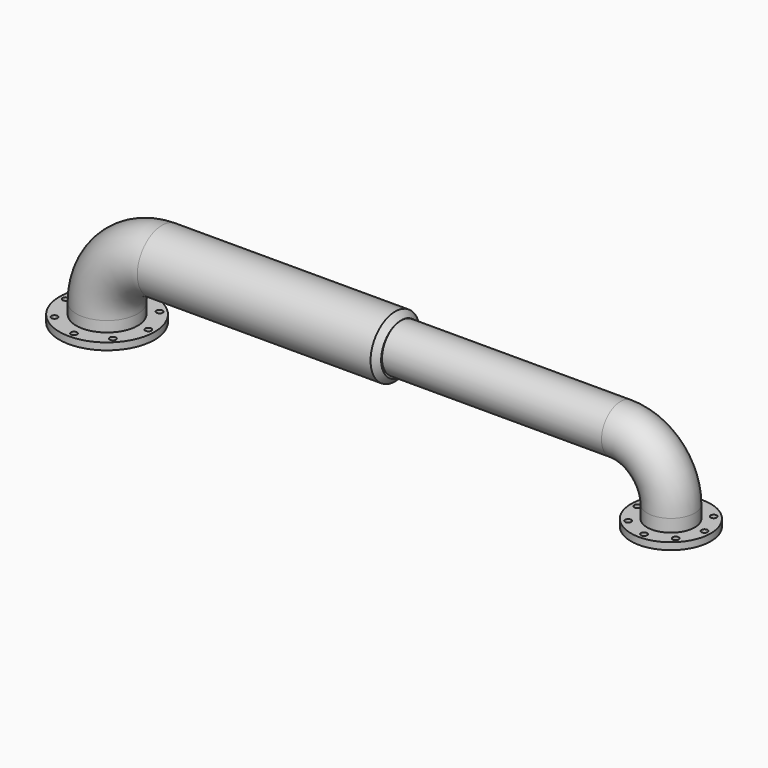
from build123d import *

# Parameters (mm, degrees)
F0_R      = 85
F3_R      = 142.5
F3_R_2    = 11
F3_R_3    = 85
F4_DEPTH  = 25
F5_R      = 110
F8_SIZE   = 21
F9_R      = 170
F9_R_2    = 11
F9_R_3    = 110
F10_DEPTH = 12.5


with BuildPart() as f2:
    # F2: sweep along a path in F1
    with BuildLine(Plane.XZ) as f2_path:
        Line((0, 0), (0, 70))
        ThreePointArc((0, 70), (-52.7207793864, 197.2792206136), (-180, 250))
        Line((-180, 250), (-1000, 250))
    # F0 (on Top) → F2 (sweep)
    with BuildSketch(Plane.XY):
        Circle(F0_R)
    sweep(path=f2_path.line)

    # F3 (on face) → F4 (join)
    with BuildSketch(Plane(origin=(0, 0, 0), x_dir=(1, 0, 0), z_dir=(0, 0, -1))):
        Circle(F3_R)
        with Locations((-84.8528137424, -84.8528137424)):
            Circle(F3_R_2, mode=Mode.SUBTRACT)
        with Locations((0, -120)):
            Circle(F3_R_2, mode=Mode.SUBTRACT)
        with Locations((84.8528137424, -84.8528137424)):
            Circle(F3_R_2, mode=Mode.SUBTRACT)
        with Locations((-120, 0)):
            Circle(F3_R_2, mode=Mode.SUBTRACT)
        with Locations((-84.8528137424, 84.8528137424)):
            Circle(F3_R_2, mode=Mode.SUBTRACT)
        Circle(F3_R_3, mode=Mode.SUBTRACT)
        with Locations((120, 0)):
            Circle(F3_R_2, mode=Mode.SUBTRACT)
        with Locations((0, 120)):
            Circle(F3_R_2, mode=Mode.SUBTRACT)
        with Locations((84.8528137424, 84.8528137424)):
            Circle(F3_R_2, mode=Mode.SUBTRACT)
    extrude(amount=-F4_DEPTH)

    # F7: sweep along a path in F6
    with BuildLine(Plane.XZ) as f7_path:
        Line((-2018.191576004, 0), (-2018.191576004, 50))
        ThreePointArc((-2018.191576004, 50), (-1959.6129322413, 191.4213562373), (-1818.191576004, 250))
        Line((-1818.191576004, 250), (-964.0375375748, 250))
    # F5 (on Top) → F7 (sweep)
    with BuildSketch(Plane.XY):
        with Locations((-2014.44, 0)):
            Circle(F5_R)
    sweep(path=f7_path.line)

    # F8
    f8_edges = [f2.edges().sort_by_distance(p)[0] for p in [
        (-964.037538, 0, 356.248424),
    ]]
    chamfer(f8_edges, length=F8_SIZE)

    # F9 (on face) → F10 (join, symmetric)
    with BuildSketch(Plane(origin=(0, 0, 0), x_dir=(1, 0, 0), z_dir=(0, 0, -1))):
        with Locations((-2014.44, 0)):
            Circle(F9_R)
        with Locations((-2118.738250225, -104.298250225)):
            Circle(F9_R_2, mode=Mode.SUBTRACT)
        with Locations((-2014.44, -147.5)):
            Circle(F9_R_2, mode=Mode.SUBTRACT)
        with Locations((-1910.141749775, -104.298250225)):
            Circle(F9_R_2, mode=Mode.SUBTRACT)
        with Locations((-2161.94, 0)):
            Circle(F9_R_2, mode=Mode.SUBTRACT)
        with Locations((-2118.738250225, 104.298250225)):
            Circle(F9_R_2, mode=Mode.SUBTRACT)
        with Locations((-2014.44, 0)):
            Circle(F9_R_3, mode=Mode.SUBTRACT)
        with Locations((-1866.94, 0)):
            Circle(F9_R_2, mode=Mode.SUBTRACT)
        with Locations((-2014.44, 147.5)):
            Circle(F9_R_2, mode=Mode.SUBTRACT)
        with Locations((-1910.141749775, 104.298250225)):
            Circle(F9_R_2, mode=Mode.SUBTRACT)
    extrude(amount=F10_DEPTH, both=True)


solid = f2.part
